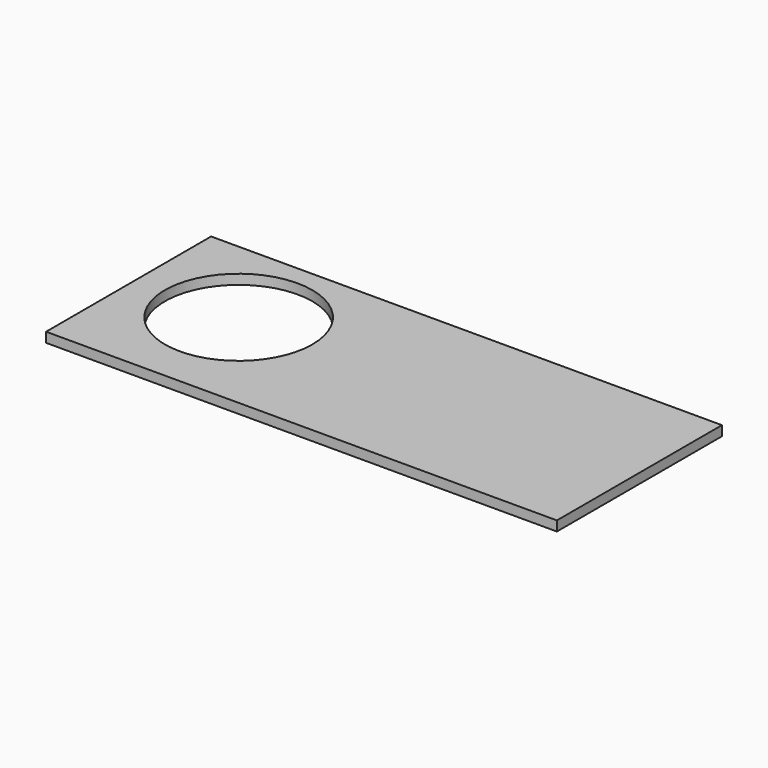
from build123d import *

# Parameters (mm, degrees)
F0_W     = 260
F0_H     = 105
F1_DEPTH = 5
F2_R     = 37.5
F3_DEPTH = 5.001


with BuildPart() as f1:
    # F0 (on Top) → F1 (new body)
    with BuildSketch(Plane.XY):
        with Locations((130, 52.5)):
            Rectangle(F0_W, F0_H)
    extrude(amount=F1_DEPTH)

    # F2 (on Top) → F3 (cut, through all)
    with BuildSketch(Plane.XY):
        with Locations((52, 57.5)):
            Circle(F2_R)
    extrude(amount=F3_DEPTH, mode=Mode.SUBTRACT)


solid = f1.part
